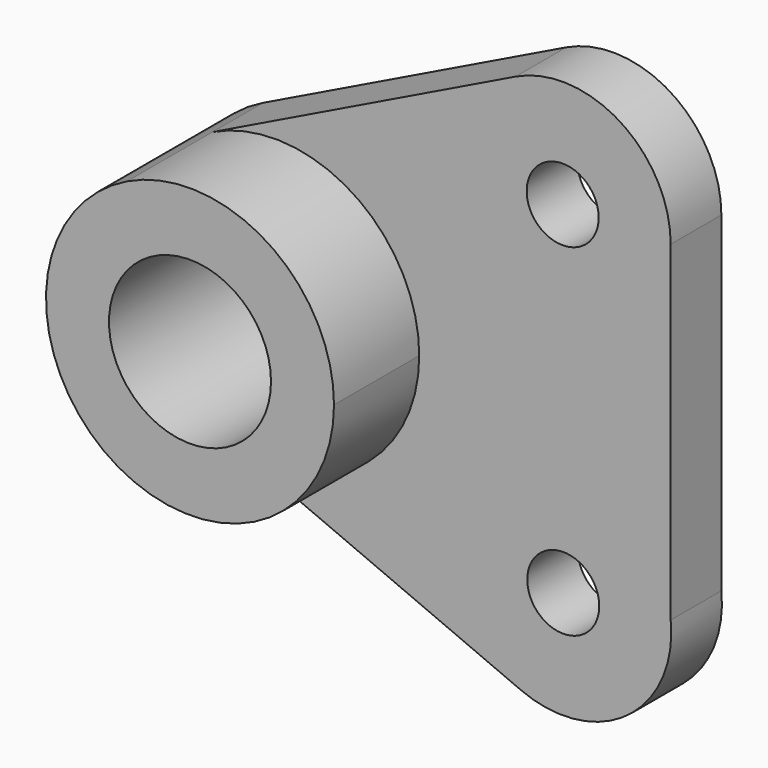
from build123d import *

# Parameters (mm, degrees)
F0_R     = 14.2875
F0_R_2   = 6.35
F1_DEPTH = 11.176
F2_DEPTH = 29.972


with BuildPart() as f1:
    # F0 (on Front) → F1 (new body)
    with BuildSketch(Plane.XZ):
        with BuildLine():
            ThreePointArc((-9.966643, -23.36292), (14.00013, -21.193309), (25.4, 0))
            ThreePointArc((25.4, 0), (13.472382, 21.532648), (-11.108262, 22.842209))
            ThreePointArc((-11.108262, 22.842209), (-25.392251, -0.627382), (-9.966643, -23.36292))
        make_face()
        Circle(F0_R, mode=Mode.SUBTRACT)
        with BuildLine():
            ThreePointArc((-11.108262, 22.842209), (13.472382, 21.532648), (25.4, 0))
            ThreePointArc((25.4, 0), (14.00013, -21.193309), (-9.966643, -23.36292))
            Line((-9.966643, -23.36292), (43.325018, -46.09719))
            ThreePointArc((43.325018, -46.09719), (62.097718, -43.91332), (69.75074, -26.632845))
            Line((69.75074, -26.632845), (69.75074, 31.717033))
            ThreePointArc((69.75074, 31.717033), (60.805026, 47.866519), (42.369543, 48.84869))
            Line((42.369543, 48.84869), (-11.108262, 22.842209))
        make_face()
        with Locations((50.8, -28.575)):
            Circle(F0_R_2, mode=Mode.SUBTRACT)
        with Locations((50.70074, 31.717033)):
            Circle(F0_R_2, mode=Mode.SUBTRACT)
    extrude(amount=F1_DEPTH)

    # F0 (on Front) → F2 (join)
    with BuildSketch(Plane.XZ):
        with BuildLine():
            ThreePointArc((-9.966643, -23.36292), (14.00013, -21.193309), (25.4, 0))
            ThreePointArc((25.4, 0), (13.472382, 21.532648), (-11.108262, 22.842209))
            ThreePointArc((-11.108262, 22.842209), (-25.392251, -0.627382), (-9.966643, -23.36292))
        make_face()
        Circle(F0_R, mode=Mode.SUBTRACT)
    extrude(amount=F2_DEPTH)


solid = f1.part
